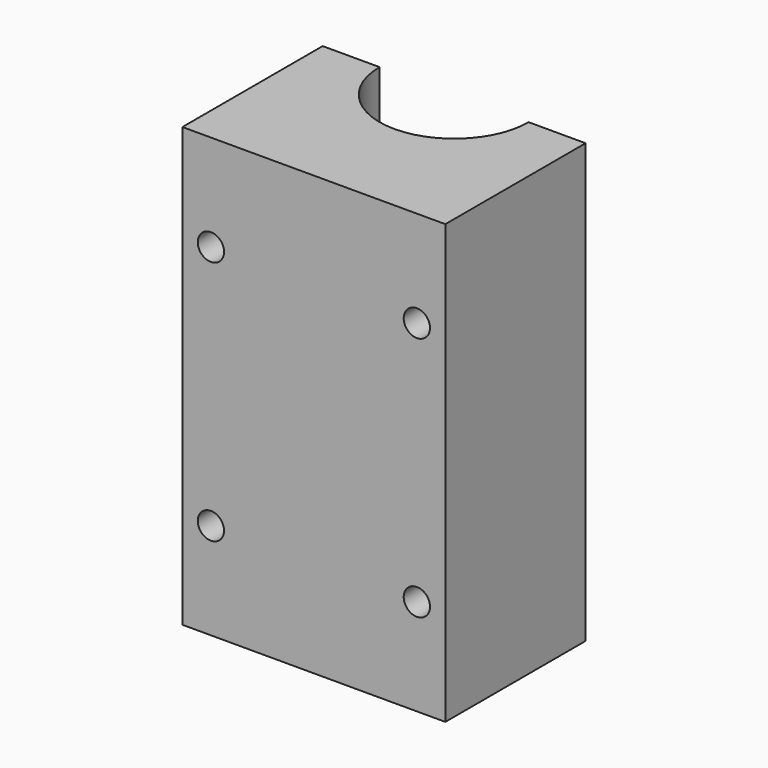
from build123d import *

# Parameters (mm, degrees)
F0_W     = 60
F0_H     = 40
F1_DEPTH = 100
F2_R     = 17
F3_DEPTH = 100
F4_R     = 3
F5_DEPTH = 45


with BuildPart() as f1:
    # F0 (on Top) → F1 (new body)
    with BuildSketch(Plane.XY):
        with Locations((0, -20)):
            Rectangle(F0_W, F0_H)
    extrude(amount=F1_DEPTH)

    # F2 (on face) → F3 (cut)
    with BuildSketch(Plane.XY.offset(100)):
        Circle(F2_R)
    extrude(amount=-F3_DEPTH, mode=Mode.SUBTRACT)

    # F4 (on face) → F5 (cut)
    with BuildSketch(Plane.XZ.offset(40)):
        with Locations((-23.5, 78)):
            Circle(F4_R)
        with Locations((-23.5, 22)):
            Circle(F4_R)
        with Locations((23.5, 22)):
            Circle(F4_R)
        with Locations((23.5, 78)):
            Circle(F4_R)
    extrude(amount=-F5_DEPTH, mode=Mode.SUBTRACT)


solid = f1.part
